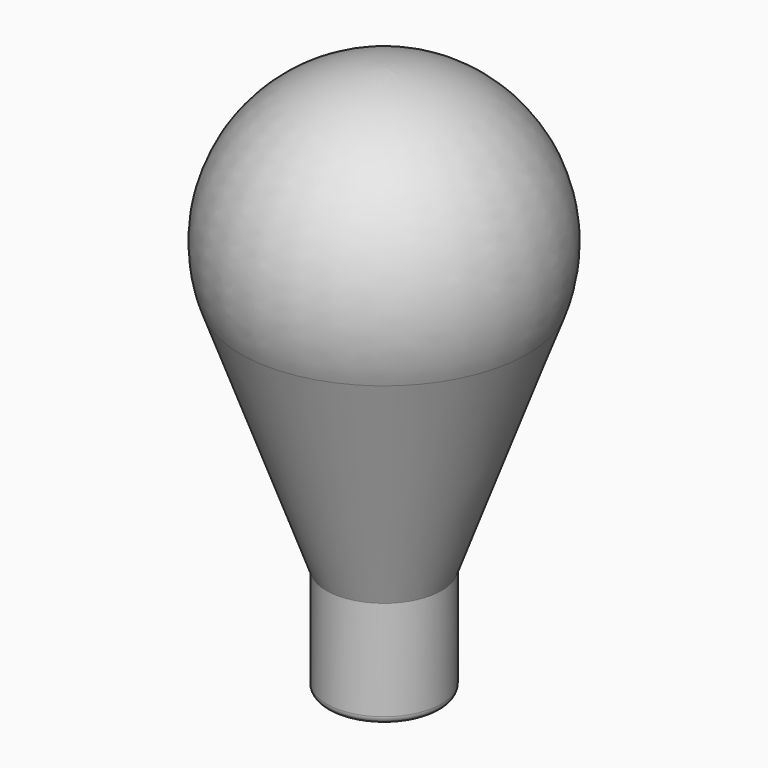
from build123d import *


with BuildPart() as f1:
    # F0 (on Front) → F1 (revolve)
    with BuildSketch(Plane.XZ):
        with BuildLine():
            ThreePointArc((-28.190779, 47.231276), (-24.574561, 74.699173), (0, 87.49188))
            Line((0, 87.49188), (0, 87.99188))
            ThreePointArc((0, 87.99188), (-24.984137, 74.985962), (-28.660625, 47.060266))
            Line((-28.660625, 47.060266), (-28.190779, 47.231276))
        make_face()
        with BuildLine():
            Line((-11.301537, 0.828466), (-28.190779, 47.231276))
            Line((-28.190779, 47.231276), (-28.660625, 47.060266))
            Line((-28.660625, 47.060266), (-11.5, -0.088163))
            Line((-11.5, -0.088163), (-11.089694, 0.061176))
            ThreePointArc((-11.089694, 0.061176), (-11.180322, 0.449043), (-11.301537, 0.828466))
        make_face()
        with BuildLine():
            ThreePointArc((-11, -0.881635), (-11.022474, -0.408101), (-11.089694, 0.061176))
            Line((-11.089694, 0.061176), (-11.5, -0.088163))
            Line((-11.5, -0.088163), (-11.5, -20))
            ThreePointArc((-11.5, -20), (-11.06066, -21.06066), (-10, -21.5))
            Line((-10, -21.5), (0, -21.5))
            Line((0, -21.5), (0, -21))
            Line((0, -21), (-10, -21))
            ThreePointArc((-10, -21), (-10.707107, -20.707107), (-11, -20))
            Line((-11, -20), (-11, -0.881635))
        make_face()
    revolve(axis=Axis((0, 0, -11), (0, 0, -1)))


solid = f1.part
